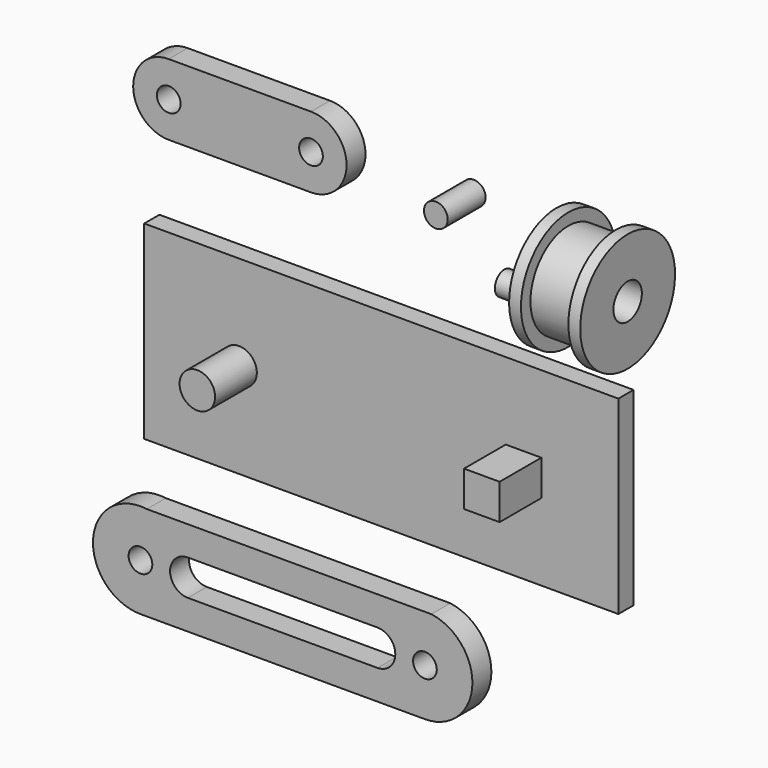
from build123d import *

# Parameters (mm, degrees)
F0_W      = 9.525
F0_H      = 9.525
F1_DEPTH  = 19.05
F0_W_2    = 127
F0_H_2    = 50.8
F0_R      = 4.7625
F2_DEPTH  = 5.08
F3_R      = 3.175
F4_DEPTH  = 6.35
F5_R      = 3.175
F6_DEPTH  = 6.35
F7_R      = 3.175
F8_DEPTH  = 12.7
F9_W      = 12.7
F9_H      = 7.9375
F11_R     = 3.175
F12_DEPTH = 6.35
F13_DEPTH = 19.05


with BuildPart() as f1:
    # F0 (on Front) → F1 (new body)
    with BuildSketch(Plane.XZ):
        with Locations((38.1, 0)):
            Rectangle(F0_W, F0_H)
    extrude(amount=F1_DEPTH)

    # F0 (on Front) → F2 (join)
    with BuildSketch(Plane.XZ):
        Rectangle(F0_W_2, F0_H_2)
        with Locations((-38.1, 0)):
            Circle(F0_R, mode=Mode.SUBTRACT)
        with Locations((38.1, 0)):
            Rectangle(F0_W, F0_H, mode=Mode.SUBTRACT)
    extrude(amount=F2_DEPTH)

    # F0 (on Front) → F13 (join)
    with BuildSketch(Plane.XZ):
        with Locations((-38.1, 0)):
            Circle(F0_R)
    extrude(amount=F13_DEPTH)


with BuildPart() as f4:
    # F3 (on Front) → F4 (new body)
    with BuildSketch(Plane.XZ):
        with BuildLine():
            Line((-55.92355, 48.100311), (-17.82355, 48.100311))
            ThreePointArc((-17.82355, 48.100311), (-8.29855, 57.625311), (-17.82355, 67.150311))
            Line((-17.82355, 67.150311), (-55.92355, 67.150311))
            ThreePointArc((-55.92355, 67.150311), (-65.44855, 57.625311), (-55.92355, 48.100311))
        make_face()
        with Locations((-55.92355, 57.625311)):
            Circle(F3_R, mode=Mode.SUBTRACT)
        with Locations((-17.82355, 57.625311)):
            Circle(F3_R, mode=Mode.SUBTRACT)
    extrude(amount=F4_DEPTH)


with BuildPart() as f6:
    # F5 (on Front) → F6 (new body)
    with BuildSketch(Plane.XZ):
        with BuildLine():
            Line((14.409332, -40.870554), (-61.790668, -40.870554))
            ThreePointArc((-61.790668, -40.870554), (-76.193164, -52.677533), (-63.377939, -66.190737))
            Line((-63.377939, -66.190737), (12.577939, -66.190737))
            ThreePointArc((12.577939, -66.190737), (25.384943, -54.390736), (14.409332, -40.870554))
        make_face()
        with Locations((-63.5, -53.473242)):
            Circle(F5_R, mode=Mode.SUBTRACT)
        with BuildLine():
            Line((-50.8, -48.710742), (-25.4, -48.710742))
            Line((-25.4, -48.710742), (0, -48.710742))
            ThreePointArc((0, -48.710742), (4.7625, -53.473242), (0, -58.235742))
            Line((0, -58.235742), (-25.4, -58.235742))
            Line((-25.4, -58.235742), (-50.8, -58.235742))
            ThreePointArc((-50.8, -58.235742), (-55.5625, -53.473242), (-50.8, -48.710742))
        make_face(mode=Mode.SUBTRACT)
        with Locations((12.7, -53.473242)):
            Circle(F5_R, mode=Mode.SUBTRACT)
    extrude(amount=F6_DEPTH)


with BuildPart() as f8:
    # F7 (on Front) → F8 (new body)
    with BuildSketch(Plane.XZ):
        with Locations((20.697569, 57.867613)):
            Circle(F7_R)
    extrude(amount=F8_DEPTH)


with BuildPart() as f10:
    # F9 (on Front) → F10 (revolve)
    with BuildSketch(Plane.XZ):
        Polygon((46.041697, 50.48707), (46.041697, 58.42457), (46.041697, 61.59957), (42.866697, 61.59957), (42.866697, 50.48707), align=None)
        with Locations((52.391697, 54.45582)):
            Rectangle(F9_W, F9_H)
        Polygon((58.741697, 61.59957), (58.741697, 58.42457), (58.741697, 50.48707), (61.916697, 50.48707), (61.916697, 61.59957), align=None)
    revolve(axis=Axis((45.960464, 0, 45.72457), (-1, 0, 0)))

    # F11 (on face) → F12 (join)
    with BuildSketch(Plane(origin=(42.866697, 0, 0), x_dir=(0, -1, 0), z_dir=(-1, 0, 0))):
        with Locations((9.525, 45.72457)):
            Circle(F11_R)
    extrude(amount=F12_DEPTH)


solid = Compound([f1.part, f4.part, f6.part, f8.part, f10.part])
